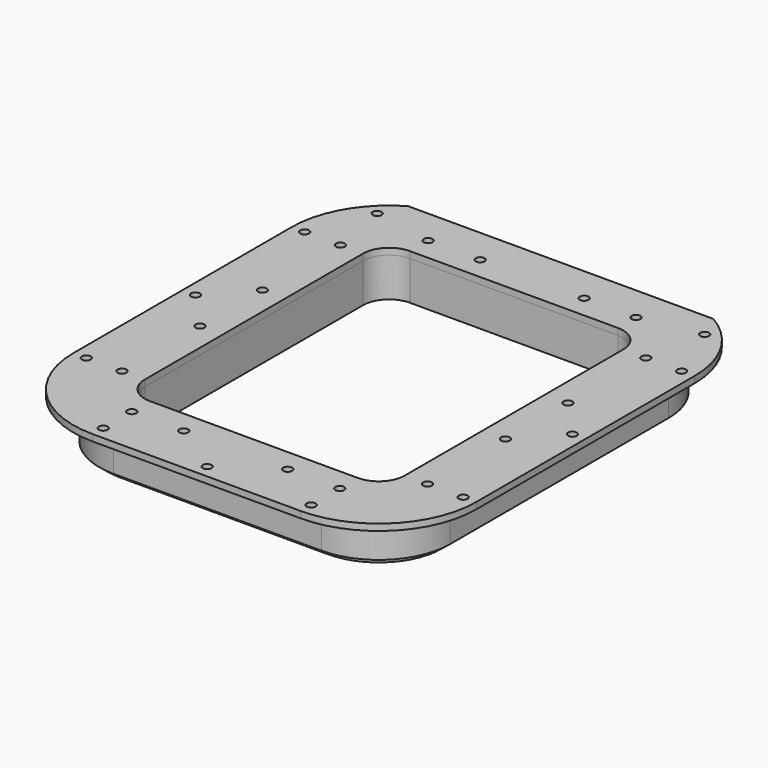
from build123d import *

# Parameters (mm, degrees)
F1_DEPTH       = 19.05
F2_DEPTH       = 6.35
F3_DEPTH       = 3.175
F5_DEPTH       = 3.175
F7_D           = 4.318
F7_CSINK_D     = 7.7978
F7_CSINK_ANGLE = 82
F9_D           = 2.7051
F9_DEPTH       = 11.90625
F9_TIP         = 0.8126940303
F11_D          = 2.7051
F11_DEPTH      = 12.7
F11_TIP        = 0.8126940303
F12_D          = 4.318
F13_D          = 4.318


with BuildPart() as f1:
    # F0 (on Top) → F1 (new body)
    with BuildSketch(Plane.XY):
        with BuildLine():
            Line((-50.8, -101.6), (50.8, -101.6))
            ThreePointArc((50.8, -101.6), (75.4957043329, -91.3707043329), (85.725, -66.675))
            Line((85.725, -66.675), (85.725, 66.675))
            ThreePointArc((85.725, 66.675), (75.4957043329, 91.3707043329), (50.8, 101.6))
            Line((50.8, 101.6), (-50.8, 101.6))
            ThreePointArc((-50.8, 101.6), (-75.4957043329, 91.3707043329), (-85.725, 66.675))
            Line((-85.725, 66.675), (-85.725, -66.675))
            ThreePointArc((-85.725, -66.675), (-75.4957043329, -91.3707043329), (-50.8, -101.6))
        make_face()
        with BuildLine():
            ThreePointArc((82.55, -66.675), (73.2506403027, -89.1256403027), (50.8, -98.425))
            Line((50.8, -98.425), (-50.8, -98.425))
            ThreePointArc((-50.8, -98.425), (-73.2506403027, -89.1256403027), (-82.55, -66.675))
            Line((-82.55, -66.675), (-82.55, 66.675))
            ThreePointArc((-82.55, 66.675), (-73.2506403027, 89.1256403027), (-50.8, 98.425))
            Line((-50.8, 98.425), (50.8, 98.425))
            ThreePointArc((50.8, 98.425), (73.2506403027, 89.1256403027), (82.55, 66.675))
            Line((82.55, 66.675), (82.55, -66.675))
        make_face(mode=Mode.SUBTRACT)
        with BuildLine():
            Line((-50.8, -98.425), (50.8, -98.425))
            ThreePointArc((50.8, -98.425), (73.2506403027, -89.1256403027), (82.55, -66.675))
            Line((82.55, -66.675), (82.55, 66.675))
            ThreePointArc((82.55, 66.675), (73.2506403027, 89.1256403027), (50.8, 98.425))
            Line((50.8, 98.425), (-50.8, 98.425))
            ThreePointArc((-50.8, 98.425), (-73.2506403027, 89.1256403027), (-82.55, 66.675))
            Line((-82.55, 66.675), (-82.55, -66.675))
            ThreePointArc((-82.55, -66.675), (-73.2506403027, -89.1256403027), (-50.8, -98.425))
        make_face()
        with BuildLine():
            ThreePointArc((81.788, -66.675), (72.7118249354, -88.5868249354), (50.8, -97.663))
            Line((50.8, -97.663), (-50.8, -97.663))
            ThreePointArc((-50.8, -97.663), (-72.7118249354, -88.5868249354), (-81.788, -66.675))
            Line((-81.788, -66.675), (-81.788, 66.675))
            ThreePointArc((-81.788, 66.675), (-72.7118249354, 88.5868249354), (-50.8, 97.663))
            Line((-50.8, 97.663), (50.8, 97.663))
            ThreePointArc((50.8, 97.663), (72.7118249354, 88.5868249354), (81.788, 66.675))
            Line((81.788, 66.675), (81.788, -66.675))
        make_face(mode=Mode.SUBTRACT)
        with BuildLine():
            Line((-50.8, -97.663), (50.8, -97.663))
            ThreePointArc((50.8, -97.663), (72.7118249354, -88.5868249354), (81.788, -66.675))
            Line((81.788, -66.675), (81.788, 66.675))
            ThreePointArc((81.788, 66.675), (72.7118249354, 88.5868249354), (50.8, 97.663))
            Line((50.8, 97.663), (-50.8, 97.663))
            ThreePointArc((-50.8, 97.663), (-72.7118249354, 88.5868249354), (-81.788, 66.675))
            Line((-81.788, 66.675), (-81.788, -66.675))
            ThreePointArc((-81.788, -66.675), (-72.7118249354, -88.5868249354), (-50.8, -97.663))
        make_face()
        with BuildLine():
            Line((-70.612, -66.675), (-70.612, 66.675))
            ThreePointArc((-70.612, 66.675), (-64.8091995489, 80.6841995489), (-50.8, 86.487))
            Line((-50.8, 86.487), (50.8, 86.487))
            ThreePointArc((50.8, 86.487), (64.8091995489, 80.6841995489), (70.612, 66.675))
            Line((70.612, 66.675), (70.612, -66.675))
            ThreePointArc((70.612, -66.675), (64.8091995489, -80.6841995489), (50.8, -86.487))
            Line((50.8, -86.487), (-50.8, -86.487))
            ThreePointArc((-50.8, -86.487), (-64.8091995489, -80.6841995489), (-70.612, -66.675))
        make_face(mode=Mode.SUBTRACT)
        with BuildLine():
            ThreePointArc((-50.8, 86.487), (-64.8091995489, 80.6841995489), (-70.612, 66.675))
            Line((-70.612, 66.675), (-70.612, -66.675))
            ThreePointArc((-70.612, -66.675), (-64.8091995489, -80.6841995489), (-50.8, -86.487))
            Line((-50.8, -86.487), (50.8, -86.487))
            ThreePointArc((50.8, -86.487), (64.8091995489, -80.6841995489), (70.612, -66.675))
            Line((70.612, -66.675), (70.612, 66.675))
            ThreePointArc((70.612, 66.675), (64.8091995489, 80.6841995489), (50.8, 86.487))
            Line((50.8, 86.487), (-50.8, 86.487))
        make_face()
        with BuildLine():
            ThreePointArc((-69.85, 66.675), (-64.2703841816, 80.1453841816), (-50.8, 85.725))
            Line((-50.8, 85.725), (50.8, 85.725))
            ThreePointArc((50.8, 85.725), (64.2703841816, 80.1453841816), (69.85, 66.675))
            Line((69.85, 66.675), (69.85, -66.675))
            ThreePointArc((69.85, -66.675), (64.2703841816, -80.1453841816), (50.8, -85.725))
            Line((50.8, -85.725), (-50.8, -85.725))
            ThreePointArc((-50.8, -85.725), (-64.2703841816, -80.1453841816), (-69.85, -66.675))
            Line((-69.85, -66.675), (-69.85, 66.675))
        make_face(mode=Mode.SUBTRACT)
        with BuildLine():
            Line((50.8, 85.725), (-50.8, 85.725))
            ThreePointArc((-50.8, 85.725), (-64.2703841816, 80.1453841816), (-69.85, 66.675))
            Line((-69.85, 66.675), (-69.85, -66.675))
            ThreePointArc((-69.85, -66.675), (-64.2703841816, -80.1453841816), (-50.8, -85.725))
            Line((-50.8, -85.725), (50.8, -85.725))
            ThreePointArc((50.8, -85.725), (64.2703841816, -80.1453841816), (69.85, -66.675))
            Line((69.85, -66.675), (69.85, 66.675))
            ThreePointArc((69.85, 66.675), (64.2703841816, 80.1453841816), (50.8, 85.725))
        make_face()
        with BuildLine():
            Line((-50.8, 79.375), (50.8, 79.375))
            ThreePointArc((50.8, 79.375), (59.7802561211, 75.6552561211), (63.5, 66.675))
            Line((63.5, 66.675), (63.5, -66.675))
            ThreePointArc((63.5, -66.675), (59.7802561211, -75.6552561211), (50.8, -79.375))
            Line((50.8, -79.375), (-50.8, -79.375))
            ThreePointArc((-50.8, -79.375), (-59.7802561211, -75.6552561211), (-63.5, -66.675))
            Line((-63.5, -66.675), (-63.5, 66.675))
            ThreePointArc((-63.5, 66.675), (-59.7802561211, 75.6552561211), (-50.8, 79.375))
        make_face(mode=Mode.SUBTRACT)
    extrude(amount=F1_DEPTH)

    # F0 (on Top) → F2 (cut)
    with BuildSketch(Plane.XY):
        with BuildLine():
            Line((-50.8, -98.425), (50.8, -98.425))
            ThreePointArc((50.8, -98.425), (73.2506403027, -89.1256403027), (82.55, -66.675))
            Line((82.55, -66.675), (82.55, 66.675))
            ThreePointArc((82.55, 66.675), (73.2506403027, 89.1256403027), (50.8, 98.425))
            Line((50.8, 98.425), (-50.8, 98.425))
            ThreePointArc((-50.8, 98.425), (-73.2506403027, 89.1256403027), (-82.55, 66.675))
            Line((-82.55, 66.675), (-82.55, -66.675))
            ThreePointArc((-82.55, -66.675), (-73.2506403027, -89.1256403027), (-50.8, -98.425))
        make_face()
        with BuildLine():
            ThreePointArc((81.788, -66.675), (72.7118249354, -88.5868249354), (50.8, -97.663))
            Line((50.8, -97.663), (-50.8, -97.663))
            ThreePointArc((-50.8, -97.663), (-72.7118249354, -88.5868249354), (-81.788, -66.675))
            Line((-81.788, -66.675), (-81.788, 66.675))
            ThreePointArc((-81.788, 66.675), (-72.7118249354, 88.5868249354), (-50.8, 97.663))
            Line((-50.8, 97.663), (50.8, 97.663))
            ThreePointArc((50.8, 97.663), (72.7118249354, 88.5868249354), (81.788, 66.675))
            Line((81.788, 66.675), (81.788, -66.675))
        make_face(mode=Mode.SUBTRACT)
        with BuildLine():
            Line((-50.8, -97.663), (50.8, -97.663))
            ThreePointArc((50.8, -97.663), (72.7118249354, -88.5868249354), (81.788, -66.675))
            Line((81.788, -66.675), (81.788, 66.675))
            ThreePointArc((81.788, 66.675), (72.7118249354, 88.5868249354), (50.8, 97.663))
            Line((50.8, 97.663), (-50.8, 97.663))
            ThreePointArc((-50.8, 97.663), (-72.7118249354, 88.5868249354), (-81.788, 66.675))
            Line((-81.788, 66.675), (-81.788, -66.675))
            ThreePointArc((-81.788, -66.675), (-72.7118249354, -88.5868249354), (-50.8, -97.663))
        make_face()
        with BuildLine():
            Line((-70.612, -66.675), (-70.612, 66.675))
            ThreePointArc((-70.612, 66.675), (-64.8091995489, 80.6841995489), (-50.8, 86.487))
            Line((-50.8, 86.487), (50.8, 86.487))
            ThreePointArc((50.8, 86.487), (64.8091995489, 80.6841995489), (70.612, 66.675))
            Line((70.612, 66.675), (70.612, -66.675))
            ThreePointArc((70.612, -66.675), (64.8091995489, -80.6841995489), (50.8, -86.487))
            Line((50.8, -86.487), (-50.8, -86.487))
            ThreePointArc((-50.8, -86.487), (-64.8091995489, -80.6841995489), (-70.612, -66.675))
        make_face(mode=Mode.SUBTRACT)
        with BuildLine():
            ThreePointArc((-50.8, 86.487), (-64.8091995489, 80.6841995489), (-70.612, 66.675))
            Line((-70.612, 66.675), (-70.612, -66.675))
            ThreePointArc((-70.612, -66.675), (-64.8091995489, -80.6841995489), (-50.8, -86.487))
            Line((-50.8, -86.487), (50.8, -86.487))
            ThreePointArc((50.8, -86.487), (64.8091995489, -80.6841995489), (70.612, -66.675))
            Line((70.612, -66.675), (70.612, 66.675))
            ThreePointArc((70.612, 66.675), (64.8091995489, 80.6841995489), (50.8, 86.487))
            Line((50.8, 86.487), (-50.8, 86.487))
        make_face()
        with BuildLine():
            ThreePointArc((-69.85, 66.675), (-64.2703841816, 80.1453841816), (-50.8, 85.725))
            Line((-50.8, 85.725), (50.8, 85.725))
            ThreePointArc((50.8, 85.725), (64.2703841816, 80.1453841816), (69.85, 66.675))
            Line((69.85, 66.675), (69.85, -66.675))
            ThreePointArc((69.85, -66.675), (64.2703841816, -80.1453841816), (50.8, -85.725))
            Line((50.8, -85.725), (-50.8, -85.725))
            ThreePointArc((-50.8, -85.725), (-64.2703841816, -80.1453841816), (-69.85, -66.675))
            Line((-69.85, -66.675), (-69.85, 66.675))
        make_face(mode=Mode.SUBTRACT)
    extrude(amount=F2_DEPTH, mode=Mode.SUBTRACT)

    # F9
    with Locations(Plane(origin=(0, 0, 6.35), x_dir=(1, 0, 0), z_dir=(0, 0, -1))):
        with Locations((-68.7605122421, 84.6355122421), (-35.306, 92.075), (0, 92.075), (35.306, 92.075), (68.7605122421, 84.6355122421), (76.2, 43.2435), (76.2, 0), (76.2, -43.2435), (68.7605122421, -84.6355122421), (35.306, -92.075), (0, -92.075), (-35.306, -92.075), (-68.7605122421, -84.6355122421), (-76.2, -43.2435), (-76.2, 0), (-76.2, 43.2435)):
            Hole(F9_D / 2, depth=F9_DEPTH)
            with Locations((0, 0, -(F9_DEPTH + F9_TIP / 2))):  # 118° drill point
                Cone(0, F9_D / 2, F9_TIP, mode=Mode.SUBTRACT)

    # F11
    with Locations(Plane.XY.offset(19.05)):
        with Locations((-74.6125, 66.675), (-50.8, 90.4875), (-25.4, 90.4875), (25.4, 90.4875), (50.8, 90.4875), (74.6125, 66.675), (74.6125, 19.05), (74.6125, -19.05), (74.6125, -66.675), (50.8, -90.4875), (25.4, -90.4875), (-25.4, -90.4875), (-50.8, -90.4875), (-74.6125, -66.675), (-74.6125, -19.05), (-74.6125, 19.05)):
            Hole(F11_D / 2, depth=F11_DEPTH)
            with Locations((0, 0, -(F11_DEPTH + F11_TIP / 2))):  # 118° drill point
                Cone(0, F11_D / 2, F11_TIP, mode=Mode.SUBTRACT)


with BuildPart() as f3:
    # F0 (on Top) → F3 (new body)
    with BuildSketch(Plane.XY):
        with BuildLine():
            Line((-50.8, -97.663), (50.8, -97.663))
            ThreePointArc((50.8, -97.663), (72.7118249354, -88.5868249354), (81.788, -66.675))
            Line((81.788, -66.675), (81.788, 66.675))
            ThreePointArc((81.788, 66.675), (72.7118249354, 88.5868249354), (50.8, 97.663))
            Line((50.8, 97.663), (-50.8, 97.663))
            ThreePointArc((-50.8, 97.663), (-72.7118249354, 88.5868249354), (-81.788, 66.675))
            Line((-81.788, 66.675), (-81.788, -66.675))
            ThreePointArc((-81.788, -66.675), (-72.7118249354, -88.5868249354), (-50.8, -97.663))
        make_face()
        with BuildLine():
            Line((-70.612, -66.675), (-70.612, 66.675))
            ThreePointArc((-70.612, 66.675), (-64.8091995489, 80.6841995489), (-50.8, 86.487))
            Line((-50.8, 86.487), (50.8, 86.487))
            ThreePointArc((50.8, 86.487), (64.8091995489, 80.6841995489), (70.612, 66.675))
            Line((70.612, 66.675), (70.612, -66.675))
            ThreePointArc((70.612, -66.675), (64.8091995489, -80.6841995489), (50.8, -86.487))
            Line((50.8, -86.487), (-50.8, -86.487))
            ThreePointArc((-50.8, -86.487), (-64.8091995489, -80.6841995489), (-70.612, -66.675))
        make_face(mode=Mode.SUBTRACT)
    extrude(amount=-F3_DEPTH)

    # F7 (through all)
    with Locations(Plane(origin=(0, 0, -3.175), x_dir=(1, 0, 0), z_dir=(0, 0, -1))):
        with Locations((-68.7605122421, 84.6355122421), (-35.306, 92.075), (0, 92.075), (35.306, 92.075), (68.7605122421, 84.6355122421), (76.2, 43.2435), (76.2, 0), (76.2, -43.2435), (68.7605122421, -84.6355122421), (35.306, -92.075), (0, -92.075), (-35.306, -92.075), (-68.7605122421, -84.6355122421), (-76.2, -43.2435), (-76.2, 0), (-76.2, 43.2435)):
            CounterSinkHole(F7_D / 2, F7_CSINK_D / 2, counter_sink_angle=F7_CSINK_ANGLE)


with BuildPart() as f5:
    # F4 (on face) → F5 (new body)
    with BuildSketch(Plane.XY.offset(19.05)):
        with BuildLine():
            Line((-50.8, -114.3), (50.8, -114.3))
            ThreePointArc((50.8, -114.3), (84.475960454, -100.350960454), (98.425, -66.675))
            Line((98.425, -66.675), (98.425, 66.675))
            ThreePointArc((98.425, 66.675), (92.0291642823, 90.5139730815), (74.559524406, 107.95))
            Line((74.559524406, 107.95), (50.8, 107.95))
            Line((50.8, 107.95), (-50.8, 107.95))
            Line((-50.8, 107.95), (-74.559524406, 107.95))
            ThreePointArc((-74.559524406, 107.95), (-92.0291642823, 90.5139730815), (-98.425, 66.675))
            Line((-98.425, 66.675), (-98.425, -66.675))
            ThreePointArc((-98.425, -66.675), (-84.475960454, -100.350960454), (-50.8, -114.3))
        make_face()
        with BuildLine():
            Line((50.8, -101.6), (-50.8, -101.6))
            ThreePointArc((-50.8, -101.6), (-75.4957043329, -91.3707043329), (-85.725, -66.675))
            Line((-85.725, -66.675), (-85.725, 66.675))
            ThreePointArc((-85.725, 66.675), (-75.4957043329, 91.3707043329), (-50.8, 101.6))
            Line((-50.8, 101.6), (50.8, 101.6))
            ThreePointArc((50.8, 101.6), (75.4957043329, 91.3707043329), (85.725, 66.675))
            Line((85.725, 66.675), (85.725, -66.675))
            ThreePointArc((85.725, -66.675), (75.4957043329, -91.3707043329), (50.8, -101.6))
        make_face(mode=Mode.SUBTRACT)
        with BuildLine():
            Line((-50.8, -114.3), (50.8, -114.3))
            ThreePointArc((50.8, -114.3), (84.475960454, -100.350960454), (98.425, -66.675))
            Line((98.425, -66.675), (98.425, 66.675))
            ThreePointArc((98.425, 66.675), (92.0291642823, 90.5139730815), (74.559524406, 107.95))
            Line((74.559524406, 107.95), (50.8, 107.95))
            Line((50.8, 107.95), (-50.8, 107.95))
            Line((-50.8, 107.95), (-74.559524406, 107.95))
            ThreePointArc((-74.559524406, 107.95), (-92.0291642823, 90.5139730815), (-98.425, 66.675))
            Line((-98.425, 66.675), (-98.425, -66.675))
            ThreePointArc((-98.425, -66.675), (-84.475960454, -100.350960454), (-50.8, -114.3))
        make_face()
        with BuildLine():
            Line((50.8, -101.6), (-50.8, -101.6))
            ThreePointArc((-50.8, -101.6), (-75.4957043329, -91.3707043329), (-85.725, -66.675))
            Line((-85.725, -66.675), (-85.725, 66.675))
            ThreePointArc((-85.725, 66.675), (-75.4957043329, 91.3707043329), (-50.8, 101.6))
            Line((-50.8, 101.6), (50.8, 101.6))
            ThreePointArc((50.8, 101.6), (75.4957043329, 91.3707043329), (85.725, 66.675))
            Line((85.725, 66.675), (85.725, -66.675))
            ThreePointArc((85.725, -66.675), (75.4957043329, -91.3707043329), (50.8, -101.6))
        make_face(mode=Mode.SUBTRACT)
        with BuildLine():
            ThreePointArc((-85.725, -66.675), (-75.4957043329, -91.3707043329), (-50.8, -101.6))
            Line((-50.8, -101.6), (50.8, -101.6))
            ThreePointArc((50.8, -101.6), (75.4957043329, -91.3707043329), (85.725, -66.675))
            Line((85.725, -66.675), (85.725, 66.675))
            ThreePointArc((85.725, 66.675), (75.4957043329, 91.3707043329), (50.8, 101.6))
            Line((50.8, 101.6), (-50.8, 101.6))
            ThreePointArc((-50.8, 101.6), (-75.4957043329, 91.3707043329), (-85.725, 66.675))
            Line((-85.725, 66.675), (-85.725, -66.675))
        make_face()
        with BuildLine():
            Line((-50.8, 79.375), (50.8, 79.375))
            ThreePointArc((50.8, 79.375), (59.7802561211, 75.6552561211), (63.5, 66.675))
            Line((63.5, 66.675), (63.5, -66.675))
            ThreePointArc((63.5, -66.675), (59.7802561211, -75.6552561211), (50.8, -79.375))
            Line((50.8, -79.375), (-50.8, -79.375))
            ThreePointArc((-50.8, -79.375), (-59.7802561211, -75.6552561211), (-63.5, -66.675))
            Line((-63.5, -66.675), (-63.5, 66.675))
            ThreePointArc((-63.5, 66.675), (-59.7802561211, 75.6552561211), (-50.8, 79.375))
        make_face(mode=Mode.SUBTRACT)
    extrude(amount=F5_DEPTH)

    # F12 (through all)
    with Locations(Plane(origin=(0, 0, 19.05), x_dir=(1, 0, 0), z_dir=(0, 0, -1))):
        with Locations((-74.6125, -19.05), (-74.6125, -66.675), (-50.8, -90.4875), (-25.4, -90.4875), (25.4, -90.4875), (50.8, -90.4875), (74.6125, -66.675), (74.6125, -19.05), (74.6125, 19.05), (-74.6125, 19.05), (-74.6125, 66.675), (-50.8, 90.4875), (-25.4, 90.4875), (25.4, 90.4875), (50.8, 90.4875), (74.6125, 66.675)):
            Hole(F12_D / 2)

    # F13 (through all)
    with Locations(Plane(origin=(0, 0, 19.05), x_dir=(1, 0, 0), z_dir=(0, 0, -1))):
        with Locations((-92.075, -66.675), (-79.9858323935, -95.8608323935), (79.9858323935, -95.8608323935), (92.075, -66.675), (92.075, 0), (92.075, 66.675), (50.8, 107.95), (0, 107.95), (-50.8, 107.95), (-92.075, 66.675), (-92.075, 0)):
            Hole(F13_D / 2)


solid = Compound([f1.part, f3.part, f5.part])
